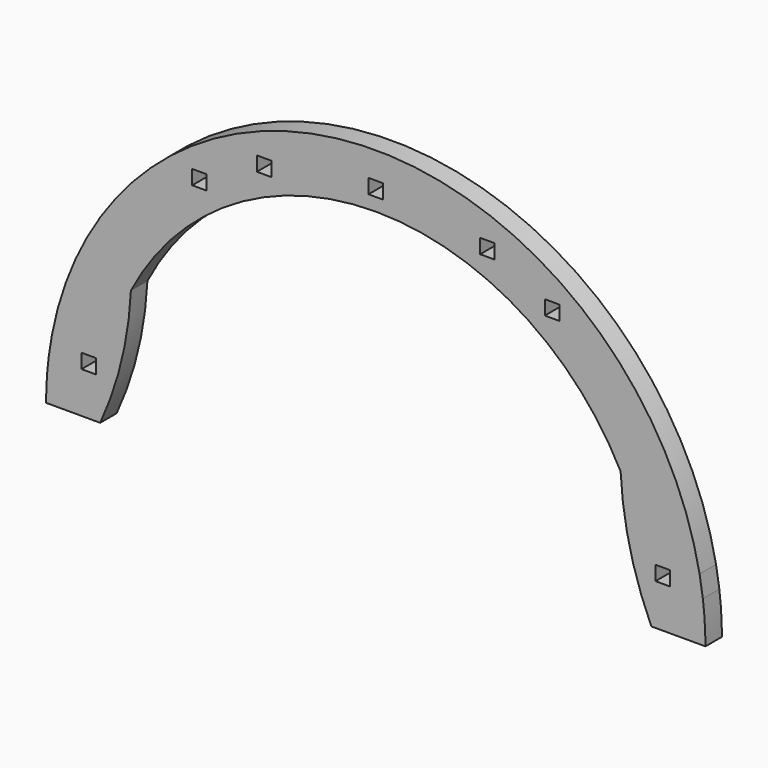
from build123d import *

# Parameters (mm, degrees)
F0_W     = 4.45
F0_H     = 4.45
F1_DEPTH = 6.35


with BuildPart() as f1:
    # F0 (on Front) → F1 (new body)
    with BuildSketch(Plane.XZ):
        with BuildLine():
            ThreePointArc((75.457489, 38.974002), (78.326715, 19.033524), (84.928237, 0))
            Line((84.928237, 0), (101.6, 0))
            ThreePointArc((101.6, 0), (101.400586, 6.362488), (100.803125, 12.7))
            Line((100.803125, 12.7), (99.798084, 19.05))
            ThreePointArc((99.798084, 19.05), (0, 101.6), (-99.798084, 19.05))
            Line((-99.798084, 19.05), (-100.803125, 12.7))
            ThreePointArc((-100.803125, 12.7), (-101.400586, 6.362488), (-101.6, 0))
            Line((-101.6, 0), (-84.928237, 0))
            ThreePointArc((-84.928237, 0), (-78.326715, 19.033524), (-75.457489, 38.974002))
            ThreePointArc((-75.457489, 38.974002), (0, 84.928237), (75.457489, 38.974002))
        make_face()
        with Locations((-88.433048, 14.925)):
            Rectangle(F0_W, F0_H, mode=Mode.SUBTRACT)
        with Locations((88.433048, 14.925)):
            Rectangle(F0_W, F0_H, mode=Mode.SUBTRACT)
        with Locations((-54.335535, 75.885)):
            Rectangle(F0_W, F0_H, mode=Mode.SUBTRACT)
        with Locations((-34.408704, 86.045)):
            Rectangle(F0_W, F0_H, mode=Mode.SUBTRACT)
        with Locations((0, 91.125)):
            Rectangle(F0_W, F0_H, mode=Mode.SUBTRACT)
        with Locations((54.335535, 75.885)):
            Rectangle(F0_W, F0_H, mode=Mode.SUBTRACT)
        with Locations((34.408704, 86.045)):
            Rectangle(F0_W, F0_H, mode=Mode.SUBTRACT)
    extrude(amount=F1_DEPTH)


solid = f1.part
